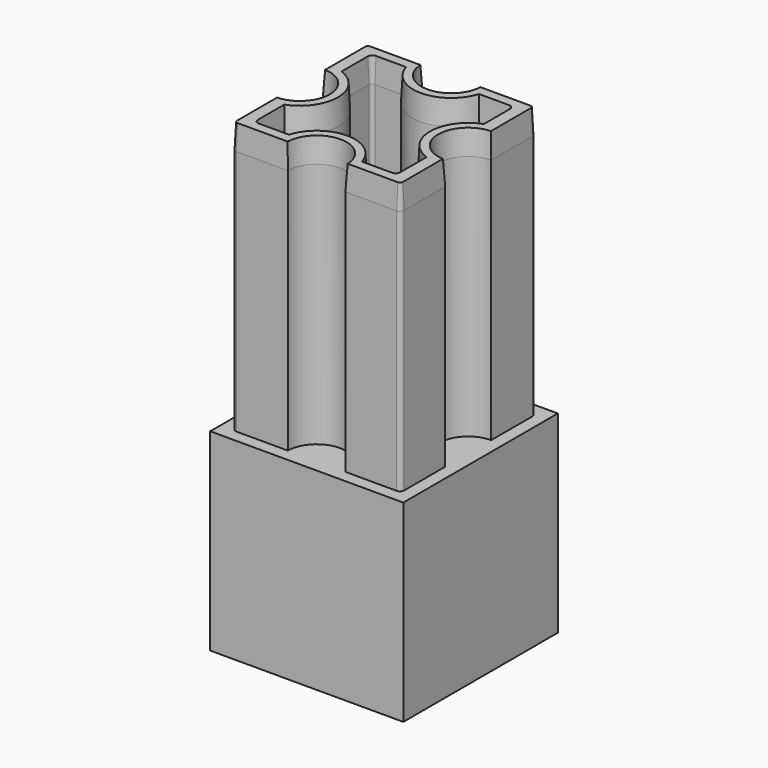
from build123d import *

# Parameters (mm, degrees)
F0_W     = 23.5
F0_H     = 23.5
F1_DEPTH = 23.5
F3_DEPTH = 30
F4_DEPTH = 3
F4_TAPER = 3


with BuildPart() as f1:
    # F0 (on Top) → F1 (new body)
    with BuildSketch(Plane.XY):
        Rectangle(F0_W, F0_H)
    extrude(amount=F1_DEPTH)

    # F2 (on face) → F3 (join)
    with BuildSketch(Plane.XY.offset(23.5)):
        with BuildLine():
            ThreePointArc((3.5, 10.25), (0, 6.75), (-3.5, 10.25))
            Line((-3.5, 10.25), (-9.75, 10.25))
            ThreePointArc((-9.75, 10.25), (-10.1035533906, 10.1035533906), (-10.25, 9.75))
            Line((-10.25, 9.75), (-10.25, 3.5))
            ThreePointArc((-10.25, 3.5), (-6.75, 0), (-10.25, -3.5))
            Line((-10.25, -3.5), (-10.25, -9.75))
            ThreePointArc((-10.25, -9.75), (-10.1035533906, -10.1035533906), (-9.75, -10.25))
            Line((-9.75, -10.25), (-3.5, -10.25))
            ThreePointArc((-3.5, -10.25), (0, -6.75), (3.5, -10.25))
            Line((3.5, -10.25), (9.75, -10.25))
            ThreePointArc((9.75, -10.25), (10.1035533906, -10.1035533906), (10.25, -9.75))
            Line((10.25, -9.75), (10.25, -3.5))
            ThreePointArc((10.25, -3.5), (6.75, 0), (10.25, 3.5))
            Line((10.25, 3.5), (10.25, 9.75))
            ThreePointArc((10.25, 9.75), (10.1035533906, 10.1035533906), (9.75, 10.25))
            Line((9.75, 10.25), (3.5, 10.25))
        make_face()
        with BuildLine():
            Line((-8.5, -8.35), (-8.5, -4.4696196706))
            ThreePointArc((-8.5, -4.4696196706), (-5.45, 0), (-8.5, 4.4696196706))
            Line((-8.5, 4.4696196706), (-8.5, 8.35))
            ThreePointArc((-8.5, 8.35), (-8.3828427125, 8.6328427125), (-8.1, 8.75))
            Line((-8.1, 8.75), (-4.5596052461, 8.75))
            ThreePointArc((-4.5596052461, 8.75), (0, 5.45), (4.5596052461, 8.75))
            Line((4.5596052461, 8.75), (8.1, 8.75))
            ThreePointArc((8.1, 8.75), (8.3828427125, 8.6328427125), (8.5, 8.35))
            Line((8.5, 8.35), (8.5, 4.4696196706))
            ThreePointArc((8.5, 4.4696196706), (5.45, 0), (8.5, -4.4696196706))
            Line((8.5, -4.4696196706), (8.5, -8.35))
            ThreePointArc((8.5, -8.35), (8.3828427125, -8.6328427125), (8.1, -8.75))
            Line((8.1, -8.75), (4.5596052461, -8.75))
            ThreePointArc((4.5596052461, -8.75), (0, -5.45), (-4.5596052461, -8.75))
            Line((-4.5596052461, -8.75), (-8.1, -8.75))
            ThreePointArc((-8.1, -8.75), (-8.3828427125, -8.6328427125), (-8.5, -8.35))
        make_face(mode=Mode.SUBTRACT)
    extrude(amount=F3_DEPTH)

    # F3_face (on face) → F4 (join)
    with BuildSketch(Plane.XY.offset(53.5)):
        with BuildLine():
            ThreePointArc((3.5, 10.25), (0, 6.75), (-3.5, 10.25))
            Line((-3.5, 10.25), (-9.75, 10.25))
            ThreePointArc((-9.75, 10.25), (-10.1035533906, 10.1035533906), (-10.25, 9.75))
            Line((-10.25, 9.75), (-10.25, 3.5))
            ThreePointArc((-10.25, 3.5), (-6.75, 0), (-10.25, -3.5))
            Line((-10.25, -3.5), (-10.25, -9.75))
            ThreePointArc((-10.25, -9.75), (-10.1035533906, -10.1035533906), (-9.75, -10.25))
            Line((-9.75, -10.25), (-3.5, -10.25))
            ThreePointArc((-3.5, -10.25), (0, -6.75), (3.5, -10.25))
            Line((3.5, -10.25), (9.75, -10.25))
            ThreePointArc((9.75, -10.25), (10.1035533906, -10.1035533906), (10.25, -9.75))
            Line((10.25, -9.75), (10.25, -3.5))
            ThreePointArc((10.25, -3.5), (6.75, 0), (10.25, 3.5))
            Line((10.25, 3.5), (10.25, 9.75))
            ThreePointArc((10.25, 9.75), (10.1035533906, 10.1035533906), (9.75, 10.25))
            Line((9.75, 10.25), (3.5, 10.25))
        make_face()
        with BuildLine():
            Line((-4.5596052461, -8.75), (-8.1, -8.75))
            ThreePointArc((-8.1, -8.75), (-8.3828427125, -8.6328427125), (-8.5, -8.35))
            Line((-8.5, -8.35), (-8.5, -4.4696196706))
            ThreePointArc((-8.5, -4.4696196706), (-5.45, 0), (-8.5, 4.4696196706))
            Line((-8.5, 4.4696196706), (-8.5, 8.35))
            ThreePointArc((-8.5, 8.35), (-8.3828427125, 8.6328427125), (-8.1, 8.75))
            Line((-8.1, 8.75), (-4.5596052461, 8.75))
            ThreePointArc((-4.5596052461, 8.75), (0, 5.45), (4.5596052461, 8.75))
            Line((4.5596052461, 8.75), (8.1, 8.75))
            ThreePointArc((8.1, 8.75), (8.3828427125, 8.6328427125), (8.5, 8.35))
            Line((8.5, 8.35), (8.5, 4.4696196706))
            ThreePointArc((8.5, 4.4696196706), (5.45, 0), (8.5, -4.4696196706))
            Line((8.5, -4.4696196706), (8.5, -8.35))
            ThreePointArc((8.5, -8.35), (8.3828427125, -8.6328427125), (8.1, -8.75))
            Line((8.1, -8.75), (4.5596052461, -8.75))
            ThreePointArc((4.5596052461, -8.75), (0, -5.45), (-4.5596052461, -8.75))
        make_face(mode=Mode.SUBTRACT)
    extrude(amount=F4_DEPTH, taper=F4_TAPER)


solid = f1.part
